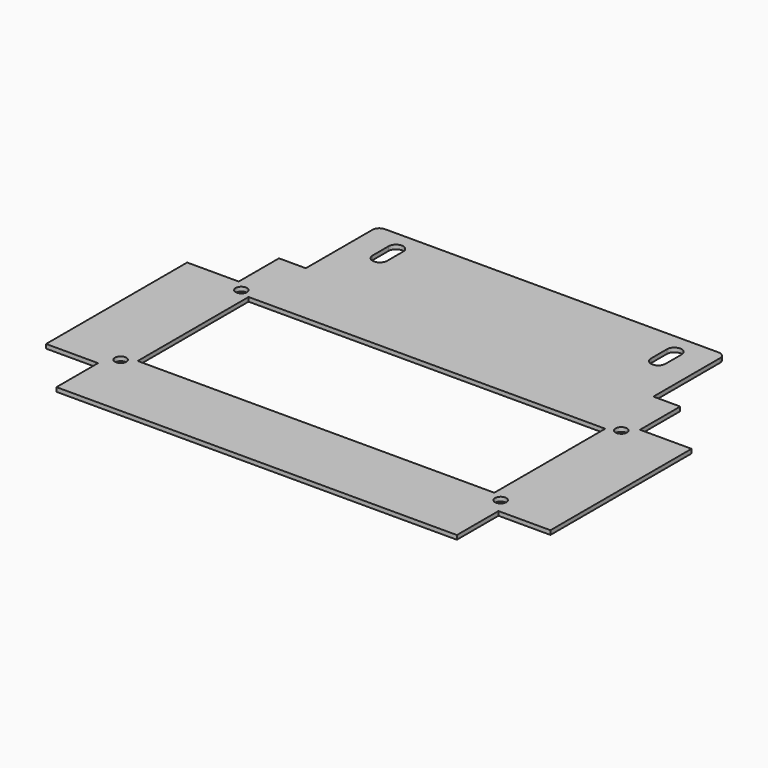
from build123d import *

# Parameters (mm, degrees)
F0_W     = 130.7084
F0_H     = 50.8
F1_DEPTH = 1.524
F2_R     = 2.0955
F3_DEPTH = 25.4
F4_R     = 2.54
F6_DEPTH = 25.4


with BuildPart() as f1:
    # F0 (on Top) → F1 (new body)
    with BuildSketch(Plane.XY):
        Polygon((-73.3806, -52.578), (73.3806, -52.578), (73.3806, -33.528), (92.4306, -33.528), (92.4306, 31.115), (73.533, 31.115), (73.533, 49.5554), (63.6905, 49.5554), (63.6905, 82.6135), (-63.6905, 82.6135), (-63.6905, 49.5554), (-73.533, 49.5554), (-73.533, 31.115), (-92.4306, 31.115), (-92.4306, -33.528), (-73.3806, -33.528), align=None)
        Rectangle(F0_W, F0_H, mode=Mode.SUBTRACT)
    extrude(amount=F1_DEPTH)

    # F2 (on face) → F3 (cut)
    with BuildSketch(Plane.XY.offset(1.524)):
        with Locations((69.6341, -27.8511)):
            Circle(F2_R)
        with Locations((69.6341, 27.4447)):
            Circle(F2_R)
        with Locations((-69.6341, 27.4447)):
            Circle(F2_R)
        with Locations((-69.6341, -27.8511)):
            Circle(F2_R)
    extrude(amount=-F3_DEPTH, mode=Mode.SUBTRACT)

    # F4
    f4_edges = [f1.edges().sort_by_distance(p)[0] for p in [
        (63.6905, 82.6135, 0.762),
        (-63.6905, 82.6135, 0.762),
    ]]
    fillet(f4_edges, radius=F4_R)

    # F5 (on face) → F6 (cut)
    with BuildSketch(Plane.XY.offset(1.524)):
        with BuildLine():
            Line((53.7083, 67.488136), (53.7083, 74.854136))
            ThreePointArc((53.7083, 74.854136), (51.100731, 77.634491), (48.376736, 74.9681))
            Line((48.376736, 74.9681), (48.376736, 67.6021))
            ThreePointArc((48.376736, 67.6021), (50.986741, 64.935709), (53.7083, 67.488136))
        make_face()
        with BuildLine():
            ThreePointArc((-53.7083, 67.551636), (-50.986741, 64.999209), (-48.376736, 67.6656))
            Line((-48.376736, 67.6656), (-48.376736, 75.0316))
            ThreePointArc((-48.376736, 75.0316), (-51.100731, 77.697991), (-53.7083, 74.917636))
            Line((-53.7083, 74.917636), (-53.7083, 67.551636))
        make_face()
    extrude(amount=-F6_DEPTH, mode=Mode.SUBTRACT)


solid = f1.part
